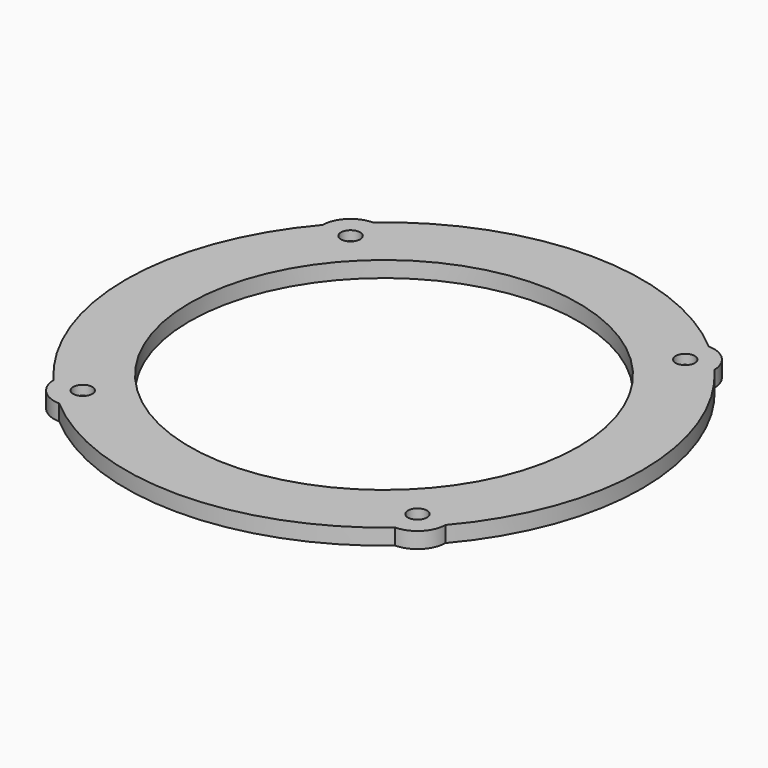
from build123d import *

# Parameters (mm, degrees)
F2_R     = 1.5
F2_R_2   = 61
F3_DEPTH = 5
F4_R     = 3
F4_R_2   = 1.5
F5_DEPTH = 3


with BuildPart() as f3:
    # F2 (on Top) → F3 (new body)
    with BuildSketch(Plane.XY):
        with BuildLine():
            ThreePointArc((-52.7168997325, 61.4973859818), (-58.8639610307, 58.8639610307), (-61.4973859818, 52.7168997325))
            ThreePointArc((-61.4973859818, 52.7168997325), (-81, 0), (-61.4973859818, -52.7168997325))
            ThreePointArc((-61.4973859818, -52.7168997325), (-58.8639610307, -58.8639610307), (-52.7168997325, -61.4973859818))
            ThreePointArc((-52.7168997325, -61.4973859818), (0, -81), (52.7168997325, -61.4973859818))
            ThreePointArc((52.7168997325, -61.4973859818), (58.8639610307, -58.8639610307), (61.4973859818, -52.7168997325))
            ThreePointArc((61.4973859818, -52.7168997325), (81, 0), (61.4973859818, 52.7168997325))
            ThreePointArc((61.4973859818, 52.7168997325), (58.8639610307, 58.8639610307), (52.7168997325, 61.4973859818))
            ThreePointArc((52.7168997325, 61.4973859818), (0, 81), (-52.7168997325, 61.4973859818))
        make_face()
        with Locations((-52.5, -52.5)):
            Circle(F2_R, mode=Mode.SUBTRACT)
        with Locations((52.5, -52.5)):
            Circle(F2_R, mode=Mode.SUBTRACT)
        Circle(F2_R_2, mode=Mode.SUBTRACT)
        with Locations((-52.5, 52.5)):
            Circle(F2_R, mode=Mode.SUBTRACT)
        with Locations((52.5, 52.5)):
            Circle(F2_R, mode=Mode.SUBTRACT)
    extrude(amount=F3_DEPTH)

    # F4 (on face) → F5 (cut)
    with BuildSketch(Plane.XY.offset(5)):
        with Locations((-52.5, 52.5)):
            Circle(F4_R)
        with Locations((-52.5, 52.5)):
            Circle(F4_R_2, mode=Mode.SUBTRACT)
        with Locations((52.5, 52.5)):
            Circle(F4_R)
        with Locations((52.5, 52.5)):
            Circle(F4_R_2, mode=Mode.SUBTRACT)
        with Locations((-52.5, -52.5)):
            Circle(F4_R)
        with Locations((-52.5, -52.5)):
            Circle(F4_R_2, mode=Mode.SUBTRACT)
        with Locations((52.5, -52.5)):
            Circle(F4_R)
        with Locations((52.5, -52.5)):
            Circle(F4_R_2, mode=Mode.SUBTRACT)
    extrude(amount=-F5_DEPTH, mode=Mode.SUBTRACT)


solid = f3.part
